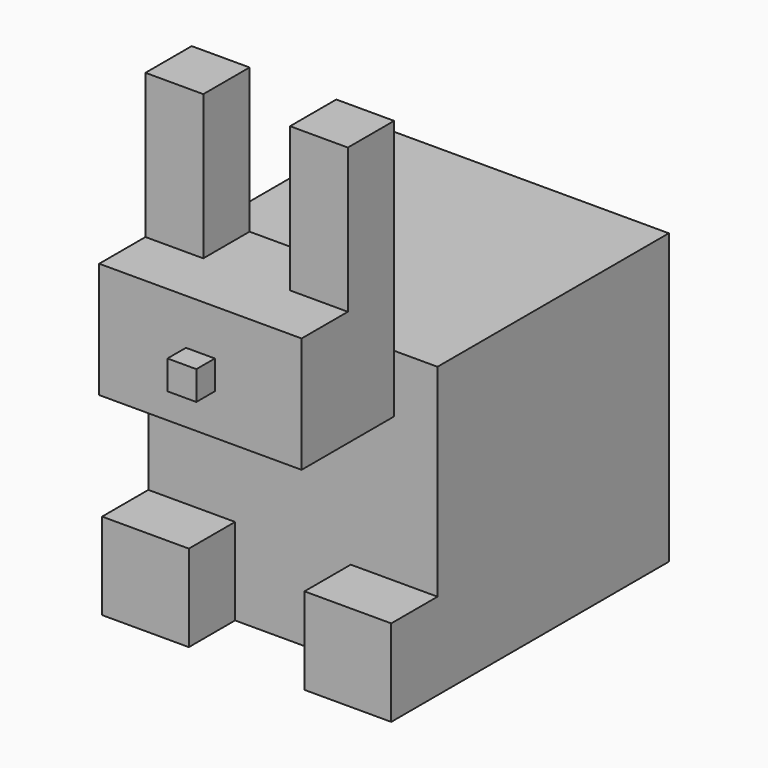
from build123d import *

# Parameters (mm, degrees)
F0_W     = 127
F0_H     = 127
F1_DEPTH = 127
F2_W     = 38.1
F2_H     = 38.1
F3_DEPTH = 25.4
F4_W     = 88.9
F4_H     = 25.4
F5_DEPTH = 50.8
F6_W     = 25.4
F6_H     = 25.4
F7_DEPTH = 63.5
F8_W     = 12.7
F8_H     = 12.7
F9_DEPTH = 10.16


with BuildPart() as f1:
    # F0 (on Front) → F1 (new body)
    with BuildSketch(Plane.XZ):
        Rectangle(F0_W, F0_H)
    extrude(amount=F1_DEPTH)

    # F2 (on face) → F3 (join)
    with BuildSketch(Plane.XZ.offset(127)):
        with Locations((-44.45, -44.45)):
            Rectangle(F2_W, F2_H)
        with Locations((44.45, -44.45)):
            Rectangle(F2_W, F2_H)
    extrude(amount=F3_DEPTH)

    # F4 (on face) → F5 (join)
    with BuildSketch(Plane.XZ.offset(127)):
        with Locations((0, 76.2)):
            Rectangle(F4_W, F4_H)
        with Locations((0, 50.8)):
            Rectangle(F4_W, F4_H)
    extrude(amount=F5_DEPTH)

    # F6 (on face) → F7 (join)
    with BuildSketch(Plane.XY.offset(88.9)):
        with Locations((-31.75, -139.7)):
            Rectangle(F6_W, F6_H)
        with Locations((31.75, -139.7)):
            Rectangle(F6_W, F6_H)
    extrude(amount=F7_DEPTH)

    # F8 (on face) → F9 (join)
    with BuildSketch(Plane.XZ.offset(177.8)):
        with Locations((0, 62.430865)):
            Rectangle(F8_W, F8_H)
    extrude(amount=F9_DEPTH)


solid = f1.part
